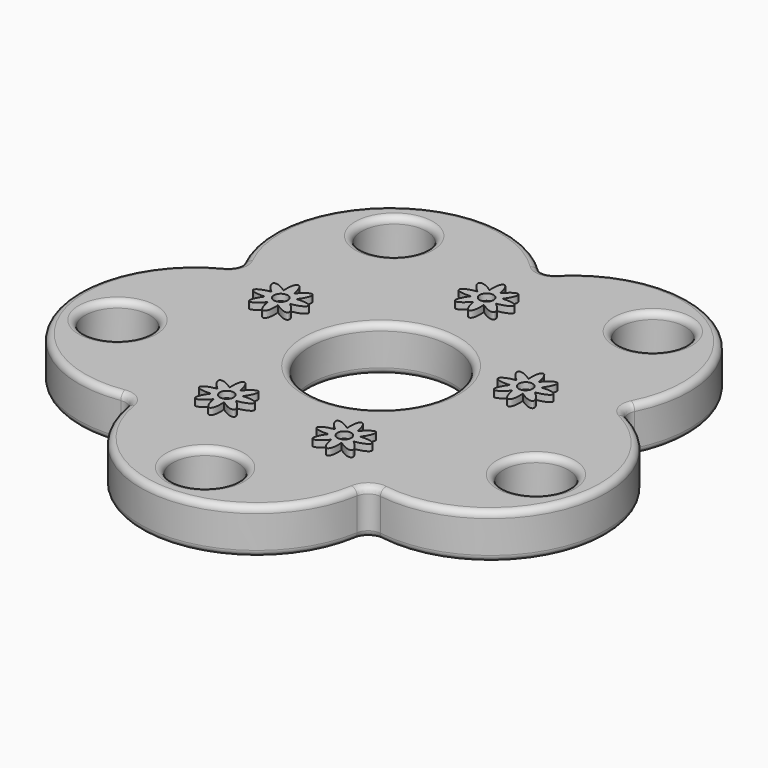
from build123d import *

# Parameters (mm, degrees)
F0_R     = 5
F0_R_2   = 11
F1_DEPTH = 7
F2_R     = 2
F3_R     = 1
F4_R     = 1.0748681276
F5_DEPTH = 1


with BuildPart() as f1:
    # F0 (on Top) → F1 (new body)
    with BuildSketch(Plane.XY):
        with BuildLine():
            ThreePointArc((29.0991042367, 9.4548721092), (24.6869805963, 33.9787137637), (0, 30.5966088641))
            ThreePointArc((0, 30.5966088641), (-24.6869805963, 33.9787137637), (-29.0991042367, 9.4548721092))
            ThreePointArc((-29.0991042367, 9.4548721092), (-39.9443736844, -12.9787137637), (-17.9842354605, -24.7531765413))
            ThreePointArc((-17.9842354605, -24.7531765413), (0, -42), (17.9842354605, -24.7531765413))
            ThreePointArc((17.9842354605, -24.7531765413), (39.9443736844, -12.9787137637), (29.0991042367, 9.4548721092))
        make_face()
        with Locations((0, -34)):
            Circle(F0_R, mode=Mode.SUBTRACT)
        with Locations((-32.335921554, -10.5065778087)):
            Circle(F0_R, mode=Mode.SUBTRACT)
        with Locations((32.335921554, -10.5065778087)):
            Circle(F0_R, mode=Mode.SUBTRACT)
        Circle(F0_R_2, mode=Mode.SUBTRACT)
        with Locations((-19.9846985779, 27.5065778087)):
            Circle(F0_R, mode=Mode.SUBTRACT)
        with Locations((19.9846985779, 27.5065778087)):
            Circle(F0_R, mode=Mode.SUBTRACT)
    extrude(amount=F1_DEPTH)

    # F2
    f2_edges = [f1.edges().sort_by_distance(p)[0] for p in [
        (17.984235, -24.753177, 3.5),
        (29.099104, 9.454872, 3.5),
        (0, 30.596609, 3.5),
        (-29.099104, 9.454872, 3.5),
        (-17.984235, -24.753177, 3.5),
    ]]
    fillet(f2_edges, radius=F2_R)

    # F3
    f3_edges = [f1.edges().sort_by_distance(p)[0] for p in [
        (0, -42, 7),
        (-18.570338, -25.559877, 7),
        (18.570338, -25.559877, 7),
        (-39.944374, -12.978714, 7),
        (39.944374, -12.978714, 7),
        (-30.047437, 9.763004, 7),
        (30.047437, 9.763004, 7),
        (-24.686981, 33.978714, 7),
        (24.686981, 33.978714, 7),
        (0, 31.593745, 7),
        (-5, -34, 7),
        (-37.335922, -10.506578, 7),
        (27.335922, -10.506578, 7),
        (-11, 0, 7),
        (-24.984699, 27.506578, 7),
        (14.984699, 27.506578, 7),
        (0, -42, 0),
        (-18.570338, -25.559877, 0),
        (18.570338, -25.559877, 0),
        (-39.944374, -12.978714, 0),
        (39.944374, -12.978714, 0),
        (-30.047437, 9.763004, 0),
        (30.047437, 9.763004, 0),
        (-24.686981, 33.978714, 0),
        (24.686981, 33.978714, 0),
        (0, 31.593745, 0),
        (-5, -34, 0),
        (-37.335922, -10.506578, 0),
        (27.335922, -10.506578, 0),
        (-11, 0, 0),
        (-24.984699, 27.506578, 0),
        (14.984699, 27.506578, 0),
    ]]
    fillet(f3_edges, radius=F3_R)

    # F4 (on face) → F5 (join)
    with BuildSketch(Plane.XY.offset(7)):
        with BuildLine():
            add(Edge.make_bspline(
                [(1.8543306826, 19.8509941318), (3.9901142338, 20.1615097783), (3.9169571158, 20.8500112503), (3.8437999978, 21.5385127223), (1.6979844173, 21.3224112241)],
                knots=[4.7751124208, 4.7751124208, 4.7751124208, 6.2772899538, 6.2772899538, 7.7794674868, 7.7794674868, 7.7794674868], degree=2, weights=[1, 0.7309462899, 1, 0.7309462899, 1]))
            add(Edge.make_bspline(
                [(1.6979844173, 21.3224112241), (2.9886437302, 23.0522059755), (2.4500697763, 23.487320141), (1.9114958223, 23.9224343065), (0.546981909, 22.2523067235)],
                knots=[4.7751124208, 4.7751124208, 4.7751124208, 6.2772899538, 6.2772899538, 7.7794674868, 7.7794674868, 7.7794674868], degree=2, weights=[1, 0.7309462899, 1, 0.7309462899, 1]))
            add(Edge.make_bspline(
                [(0.546981909, 22.2523067235), (0.2364662625, 24.3880902746), (-0.4520352095, 24.3149331567), (-1.1405366815, 24.2417760387), (-0.9244351832, 22.0959604581)],
                knots=[4.7751124208, 4.7751124208, 4.7751124208, 6.2772899538, 6.2772899538, 7.7794674868, 7.7794674868, 7.7794674868], degree=2, weights=[1, 0.7309462899, 1, 0.7309462899, 1]))
            add(Edge.make_bspline(
                [(-0.9244351832, 22.0959604581), (-2.6542299347, 23.386619771), (-3.0893441001, 22.8480458171), (-3.5244582656, 22.3094718632), (-1.8543306826, 20.9449579498)],
                knots=[4.7751124208, 4.7751124208, 4.7751124208, 6.2772899538, 6.2772899538, 7.7794674868, 7.7794674868, 7.7794674868], degree=2, weights=[1, 0.7309462899, 1, 0.7309462899, 1]))
            add(Edge.make_bspline(
                [(-1.8543306826, 20.9449579498), (-3.9901142338, 20.6344423034), (-3.9169571158, 19.9459408314), (-3.8437999978, 19.2574393594), (-1.6979844173, 19.4735408576)],
                knots=[4.7751124208, 4.7751124208, 4.7751124208, 6.2772899538, 6.2772899538, 7.7794674868, 7.7794674868, 7.7794674868], degree=2, weights=[1, 0.7309462899, 1, 0.7309462899, 1]))
            add(Edge.make_bspline(
                [(-1.6979844173, 19.4735408576), (-2.9886437302, 17.7437461062), (-2.4500697763, 17.3086319407), (-1.9114958223, 16.8735177752), (-0.546981909, 18.5436453582)],
                knots=[4.7751124208, 4.7751124208, 4.7751124208, 6.2772899538, 6.2772899538, 7.7794674868, 7.7794674868, 7.7794674868], degree=2, weights=[1, 0.7309462899, 1, 0.7309462899, 1]))
            add(Edge.make_bspline(
                [(-0.546981909, 18.5436453582), (-0.2364662625, 16.407861807), (0.4520352095, 16.481018925), (1.1405366815, 16.554176043), (0.9244351832, 18.6999916235)],
                knots=[4.7751124208, 4.7751124208, 4.7751124208, 6.2772899538, 6.2772899538, 7.7794674868, 7.7794674868, 7.7794674868], degree=2, weights=[1, 0.7309462899, 1, 0.7309462899, 1]))
            add(Edge.make_bspline(
                [(0.9244351832, 18.6999916235), (2.6542299347, 17.4093323106), (3.0893441001, 17.9479062646), (3.5244582656, 18.4864802185), (1.8543306826, 19.8509941318)],
                knots=[4.7751124208, 4.7751124208, 4.7751124208, 6.2772899538, 6.2772899538, 7.7794674868, 7.7794674868, 7.7794674868], degree=2, weights=[1, 0.7309462899, 1, 0.7309462899, 1]))
        make_face()
        with Locations((0, 20.3979760408)):
            Circle(F4_R, mode=Mode.SUBTRACT)
        with BuildLine():
            add(Edge.make_bspline(
                [(-17.4977934517, 4.2651761441), (-15.3620099006, 4.5756917906), (-15.4351670186, 5.2641932626), (-15.5083241366, 5.9526947346), (-17.6541397171, 5.7365932363)],
                knots=[4.7751124208, 4.7751124208, 4.7751124208, 6.2772899538, 6.2772899538, 7.7794674868, 7.7794674868, 7.7794674868], degree=2, weights=[1, 0.7309462899, 1, 0.7309462899, 1]))
            add(Edge.make_bspline(
                [(-17.6541397171, 5.7365932363), (-16.3634804042, 7.4663879878), (-16.9020543581, 7.9015021533), (-17.440628312, 8.3366163187), (-18.8051422254, 6.6664887357)],
                knots=[4.7751124208, 4.7751124208, 4.7751124208, 6.2772899538, 6.2772899538, 7.7794674868, 7.7794674868, 7.7794674868], degree=2, weights=[1, 0.7309462899, 1, 0.7309462899, 1]))
            add(Edge.make_bspline(
                [(-18.8051422254, 6.6664887357), (-19.1156578718, 8.8022722869), (-19.8041593438, 8.7291151689), (-20.4926608158, 8.6559580509), (-20.2765593176, 6.5101424704)],
                knots=[4.7751124208, 4.7751124208, 4.7751124208, 6.2772899538, 6.2772899538, 7.7794674868, 7.7794674868, 7.7794674868], degree=2, weights=[1, 0.7309462899, 1, 0.7309462899, 1]))
            add(Edge.make_bspline(
                [(-20.2765593176, 6.5101424704), (-22.0063540691, 7.8008017833), (-22.4414682345, 7.2622278294), (-22.8765824, 6.7236538754), (-21.206454817, 5.3591399621)],
                knots=[4.7751124208, 4.7751124208, 4.7751124208, 6.2772899538, 6.2772899538, 7.7794674868, 7.7794674868, 7.7794674868], degree=2, weights=[1, 0.7309462899, 1, 0.7309462899, 1]))
            add(Edge.make_bspline(
                [(-21.206454817, 5.3591399621), (-23.3422383682, 5.0486243156), (-23.2690812502, 4.3601228436), (-23.1959241322, 3.6716213716), (-21.0501085517, 3.8877228699)],
                knots=[4.7751124208, 4.7751124208, 4.7751124208, 6.2772899538, 6.2772899538, 7.7794674868, 7.7794674868, 7.7794674868], degree=2, weights=[1, 0.7309462899, 1, 0.7309462899, 1]))
            add(Edge.make_bspline(
                [(-21.0501085517, 3.8877228699), (-22.3407678646, 2.1579281184), (-21.8021939107, 1.722813953), (-21.2636199567, 1.2876997875), (-19.8991060434, 2.9578273705)],
                knots=[4.7751124208, 4.7751124208, 4.7751124208, 6.2772899538, 6.2772899538, 7.7794674868, 7.7794674868, 7.7794674868], degree=2, weights=[1, 0.7309462899, 1, 0.7309462899, 1]))
            add(Edge.make_bspline(
                [(-19.8991060434, 2.9578273705), (-19.5885903969, 0.8220438193), (-18.9000889249, 0.8952009373), (-18.2115874529, 0.9683580553), (-18.4276889512, 3.1141736358)],
                knots=[4.7751124208, 4.7751124208, 4.7751124208, 6.2772899538, 6.2772899538, 7.7794674868, 7.7794674868, 7.7794674868], degree=2, weights=[1, 0.7309462899, 1, 0.7309462899, 1]))
            add(Edge.make_bspline(
                [(-18.4276889512, 3.1141736358), (-16.6978941997, 1.8235143229), (-16.2627800342, 2.3620882768), (-15.8276658688, 2.9006622308), (-17.4977934517, 4.2651761441)],
                knots=[4.7751124208, 4.7751124208, 4.7751124208, 6.2772899538, 6.2772899538, 7.7794674868, 7.7794674868, 7.7794674868], degree=2, weights=[1, 0.7309462899, 1, 0.7309462899, 1]))
        make_face()
        with Locations((-19.3521241344, 4.8121580531)):
            Circle(F4_R, mode=Mode.SUBTRACT)
        with BuildLine():
            add(Edge.make_bspline(
                [(20.0155184556, 4.6802390061), (22.1513020068, 4.9907546525), (22.0781448888, 5.6792561245), (22.0049877708, 6.3677575965), (19.8591721903, 6.1516560983)],
                knots=[4.7751124208, 4.7751124208, 4.7751124208, 6.2772899538, 6.2772899538, 7.7794674868, 7.7794674868, 7.7794674868], degree=2, weights=[1, 0.7309462899, 1, 0.7309462899, 1]))
            add(Edge.make_bspline(
                [(19.8591721903, 6.1516560983), (21.1498315032, 7.8814508497), (20.6112575492, 8.3165650152), (20.0726835953, 8.7516791807), (18.708169682, 7.0815515977)],
                knots=[4.7751124208, 4.7751124208, 4.7751124208, 6.2772899538, 6.2772899538, 7.7794674868, 7.7794674868, 7.7794674868], degree=2, weights=[1, 0.7309462899, 1, 0.7309462899, 1]))
            add(Edge.make_bspline(
                [(18.708169682, 7.0815515977), (18.3976540355, 9.2173351489), (17.7091525635, 9.1441780309), (17.0206510915, 9.0710209129), (17.2367525897, 6.9252053324)],
                knots=[4.7751124208, 4.7751124208, 4.7751124208, 6.2772899538, 6.2772899538, 7.7794674868, 7.7794674868, 7.7794674868], degree=2, weights=[1, 0.7309462899, 1, 0.7309462899, 1]))
            add(Edge.make_bspline(
                [(17.2367525897, 6.9252053324), (15.5069578383, 8.2158646453), (15.0718436728, 7.6772906913), (14.6367295073, 7.1387167374), (16.3068570903, 5.7742028241)],
                knots=[4.7751124208, 4.7751124208, 4.7751124208, 6.2772899538, 6.2772899538, 7.7794674868, 7.7794674868, 7.7794674868], degree=2, weights=[1, 0.7309462899, 1, 0.7309462899, 1]))
            add(Edge.make_bspline(
                [(16.3068570903, 5.7742028241), (14.1710735392, 5.4636871776), (14.2442306571, 4.7751857056), (14.3173877751, 4.0866842336), (16.4632033557, 4.3027857319)],
                knots=[4.7751124208, 4.7751124208, 4.7751124208, 6.2772899538, 6.2772899538, 7.7794674868, 7.7794674868, 7.7794674868], degree=2, weights=[1, 0.7309462899, 1, 0.7309462899, 1]))
            add(Edge.make_bspline(
                [(16.4632033557, 4.3027857319), (15.1725440428, 2.5729909804), (15.7111179967, 2.1378768149), (16.2496919506, 1.7027626494), (17.614205864, 3.3728902324)],
                knots=[4.7751124208, 4.7751124208, 4.7751124208, 6.2772899538, 6.2772899538, 7.7794674868, 7.7794674868, 7.7794674868], degree=2, weights=[1, 0.7309462899, 1, 0.7309462899, 1]))
            add(Edge.make_bspline(
                [(17.614205864, 3.3728902324), (17.9247215104, 1.2371066813), (18.6132229824, 1.3102637993), (19.3017244544, 1.3834209172), (19.0856229562, 3.5292364978)],
                knots=[4.7751124208, 4.7751124208, 4.7751124208, 6.2772899538, 6.2772899538, 7.7794674868, 7.7794674868, 7.7794674868], degree=2, weights=[1, 0.7309462899, 1, 0.7309462899, 1]))
            add(Edge.make_bspline(
                [(19.0856229562, 3.5292364978), (20.8154177076, 2.2385771849), (21.2505318731, 2.7771511388), (21.6856460386, 3.3157250927), (20.0155184556, 4.6802390061)],
                knots=[4.7751124208, 4.7751124208, 4.7751124208, 6.2772899538, 6.2772899538, 7.7794674868, 7.7794674868, 7.7794674868], degree=2, weights=[1, 0.7309462899, 1, 0.7309462899, 1]))
        make_face()
        with Locations((18.161187773, 5.2272209151)):
            Circle(F4_R, mode=Mode.SUBTRACT)
        with BuildLine():
            add(Edge.make_bspline(
                [(10.9523141708, -19.0168476038), (13.088097722, -18.7063319574), (13.014940604, -18.0178304854), (12.941783486, -17.3293290134), (10.7959679055, -17.5454305116)],
                knots=[4.7751124208, 4.7751124208, 4.7751124208, 6.2772899538, 6.2772899538, 7.7794674868, 7.7794674868, 7.7794674868], degree=2, weights=[1, 0.7309462899, 1, 0.7309462899, 1]))
            add(Edge.make_bspline(
                [(10.7959679055, -17.5454305116), (12.0866272184, -15.8156357602), (11.5480532645, -15.3805215947), (11.0094793105, -14.9454074292), (9.6449653972, -16.6155350122)],
                knots=[4.7751124208, 4.7751124208, 4.7751124208, 6.2772899538, 6.2772899538, 7.7794674868, 7.7794674868, 7.7794674868], degree=2, weights=[1, 0.7309462899, 1, 0.7309462899, 1]))
            add(Edge.make_bspline(
                [(9.6449653972, -16.6155350122), (9.3344497508, -14.479751461), (8.6459482788, -14.552908579), (7.9574468067, -14.626065697), (8.173548305, -16.7718812775)],
                knots=[4.7751124208, 4.7751124208, 4.7751124208, 6.2772899538, 6.2772899538, 7.7794674868, 7.7794674868, 7.7794674868], degree=2, weights=[1, 0.7309462899, 1, 0.7309462899, 1]))
            add(Edge.make_bspline(
                [(8.173548305, -16.7718812775), (6.4437535535, -15.4812219646), (6.0086393881, -16.0197959186), (5.5735252226, -16.5583698725), (7.2436528056, -17.9228837858)],
                knots=[4.7751124208, 4.7751124208, 4.7751124208, 6.2772899538, 6.2772899538, 7.7794674868, 7.7794674868, 7.7794674868], degree=2, weights=[1, 0.7309462899, 1, 0.7309462899, 1]))
            add(Edge.make_bspline(
                [(7.2436528056, -17.9228837858), (5.1078692544, -18.2333994323), (5.1810263724, -18.9219009043), (5.2541834904, -19.6104023763), (7.3999990709, -19.394300878)],
                knots=[4.7751124208, 4.7751124208, 4.7751124208, 6.2772899538, 6.2772899538, 7.7794674868, 7.7794674868, 7.7794674868], degree=2, weights=[1, 0.7309462899, 1, 0.7309462899, 1]))
            add(Edge.make_bspline(
                [(7.3999990709, -19.394300878), (6.109339758, -21.1240956295), (6.6479137119, -21.559209795), (7.1864876659, -21.9943239605), (8.5510015792, -20.3241963775)],
                knots=[4.7751124208, 4.7751124208, 4.7751124208, 6.2772899538, 6.2772899538, 7.7794674868, 7.7794674868, 7.7794674868], degree=2, weights=[1, 0.7309462899, 1, 0.7309462899, 1]))
            add(Edge.make_bspline(
                [(8.5510015792, -20.3241963775), (8.8615172257, -22.4599799286), (9.5500186977, -22.3868228106), (10.2385201697, -22.3136656927), (10.0224186714, -20.1678501121)],
                knots=[4.7751124208, 4.7751124208, 4.7751124208, 6.2772899538, 6.2772899538, 7.7794674868, 7.7794674868, 7.7794674868], degree=2, weights=[1, 0.7309462899, 1, 0.7309462899, 1]))
            add(Edge.make_bspline(
                [(10.0224186714, -20.1678501121), (11.7522134229, -21.458509425), (12.1873275884, -20.9199354711), (12.6224417538, -20.3813615172), (10.9523141708, -19.0168476038)],
                knots=[4.7751124208, 4.7751124208, 4.7751124208, 6.2772899538, 6.2772899538, 7.7794674868, 7.7794674868, 7.7794674868], degree=2, weights=[1, 0.7309462899, 1, 0.7309462899, 1]))
        make_face()
        with Locations((9.0979834882, -18.4698656948)):
            Circle(F4_R, mode=Mode.SUBTRACT)
        with BuildLine():
            add(Edge.make_bspline(
                [(-6.7375942182, -19.609917649), (-4.601810667, -19.2994020025), (-4.674967785, -18.6109005305), (-4.748124903, -17.9223990585), (-6.8939404835, -18.1385005568)],
                knots=[4.7751124208, 4.7751124208, 4.7751124208, 6.2772899538, 6.2772899538, 7.7794674868, 7.7794674868, 7.7794674868], degree=2, weights=[1, 0.7309462899, 1, 0.7309462899, 1]))
            add(Edge.make_bspline(
                [(-6.8939404835, -18.1385005568), (-5.6032811706, -16.4087058053), (-6.1418551245, -15.9735916398), (-6.6804290785, -15.5384774744), (-8.0449429918, -17.2086050574)],
                knots=[4.7751124208, 4.7751124208, 4.7751124208, 6.2772899538, 6.2772899538, 7.7794674868, 7.7794674868, 7.7794674868], degree=2, weights=[1, 0.7309462899, 1, 0.7309462899, 1]))
            add(Edge.make_bspline(
                [(-8.0449429918, -17.2086050574), (-8.3554586383, -15.0728215062), (-9.0439601103, -15.1459786242), (-9.7324615823, -15.2191357422), (-9.516360084, -17.3649513227)],
                knots=[4.7751124208, 4.7751124208, 4.7751124208, 6.2772899538, 6.2772899538, 7.7794674868, 7.7794674868, 7.7794674868], degree=2, weights=[1, 0.7309462899, 1, 0.7309462899, 1]))
            add(Edge.make_bspline(
                [(-9.516360084, -17.3649513227), (-11.2461548355, -16.0742920098), (-11.6812690009, -16.6128659637), (-12.1163831664, -17.1514399177), (-10.4462555834, -18.515953831)],
                knots=[4.7751124208, 4.7751124208, 4.7751124208, 6.2772899538, 6.2772899538, 7.7794674868, 7.7794674868, 7.7794674868], degree=2, weights=[1, 0.7309462899, 1, 0.7309462899, 1]))
            add(Edge.make_bspline(
                [(-10.4462555834, -18.515953831), (-12.5820391346, -18.8264694774), (-12.5088820166, -19.5149709494), (-12.4357248986, -20.2034724215), (-10.2899093181, -19.9873709232)],
                knots=[4.7751124208, 4.7751124208, 4.7751124208, 6.2772899538, 6.2772899538, 7.7794674868, 7.7794674868, 7.7794674868], degree=2, weights=[1, 0.7309462899, 1, 0.7309462899, 1]))
            add(Edge.make_bspline(
                [(-10.2899093181, -19.9873709232), (-11.580568631, -21.7171656747), (-11.0419946771, -22.1522798401), (-10.5034207231, -22.5873940056), (-9.1389068098, -20.9172664226)],
                knots=[4.7751124208, 4.7751124208, 4.7751124208, 6.2772899538, 6.2772899538, 7.7794674868, 7.7794674868, 7.7794674868], degree=2, weights=[1, 0.7309462899, 1, 0.7309462899, 1]))
            add(Edge.make_bspline(
                [(-9.1389068098, -20.9172664226), (-8.8283911633, -23.0530499738), (-8.1398896913, -22.9798928558), (-7.4513882193, -22.9067357378), (-7.6674897176, -20.7609201573)],
                knots=[4.7751124208, 4.7751124208, 4.7751124208, 6.2772899538, 6.2772899538, 7.7794674868, 7.7794674868, 7.7794674868], degree=2, weights=[1, 0.7309462899, 1, 0.7309462899, 1]))
            add(Edge.make_bspline(
                [(-7.6674897176, -20.7609201573), (-5.9376949661, -22.0515794702), (-5.5025808006, -21.5130055163), (-5.0674666352, -20.9744315623), (-6.7375942182, -19.609917649)],
                knots=[4.7751124208, 4.7751124208, 4.7751124208, 6.2772899538, 6.2772899538, 7.7794674868, 7.7794674868, 7.7794674868], degree=2, weights=[1, 0.7309462899, 1, 0.7309462899, 1]))
        make_face()
        with Locations((-8.5919249008, -19.06293574)):
            Circle(F4_R, mode=Mode.SUBTRACT)
    extrude(amount=F5_DEPTH)


solid = f1.part
